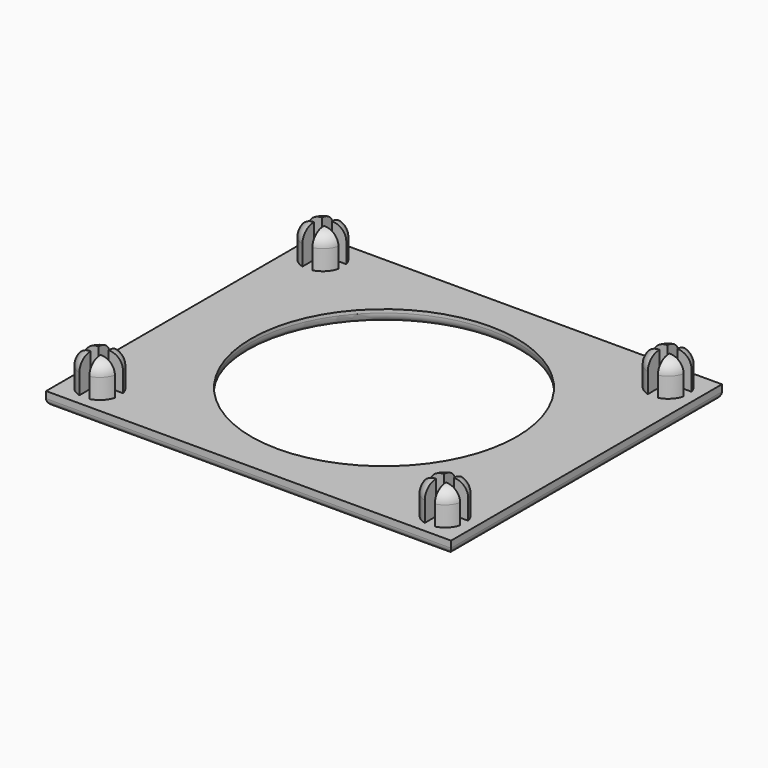
from build123d import *

# Parameters (mm, degrees)
SKETCH001_W                = 61
SKETCH001_H                = 51
PAD_DEPTH                  = 2
SKETCH002_R                = 3
PAD001_DEPTH               = 5
SKETCH002_MIRRORED_2_R     = 3
PAD001_MIRRORED_2_DEPTH    = 5
FILLET_R                   = 2
FILLET001_R                = 1
POCKET_DEPTH               = 5
POCKET_MIRRORED002_2_DEPTH = 5
SKETCH043_R                = 20
POCKET010_DEPTH            = 5
FILLET020_R                = 1.5


with BuildPart() as part:
    # Sketch001 → Pad (new body)
    with BuildSketch(Plane.XY):
        Rectangle(SKETCH001_W, SKETCH001_H)
    extrude(amount=PAD_DEPTH)

    # Sketch002 (on DatumPlane) → Pad001 (join)
    with BuildSketch(Plane.XY.offset(2)):
        with Locations((-26, 21)):
            Circle(SKETCH002_R)
    pad001 = extrude(amount=PAD001_DEPTH)

    # Sketch002 Mirrored 2 → Pad001 Mirrored 2 (add)
    with BuildSketch(Plane(origin=(0, 0, 2), x_dir=(-1, 0, 0), z_dir=(0, 0, -1))):
        with Locations((-26, 21)):
            Circle(SKETCH002_MIRRORED_2_R)
    pad001_mirrored_2 = extrude(amount=-PAD001_MIRRORED_2_DEPTH)

    # Mirrored001: Pad001, Pad001 Mirrored 2 across Sketch002 H_Axis
    add(pad001.mirror(Plane(origin=(0, 0, 2), x_dir=(0, 0, 1), z_dir=(0, 1, 0))))
    add(pad001_mirrored_2.mirror(Plane(origin=(0, 0, 2), x_dir=(0, 0, 1), z_dir=(0, 1, 0))))

    # Fillet
    fillet_edges = [part.edges().sort_by_distance(p)[0] for p in [
        (29, 21, 7),
        (29, -21, 7),
        (-29, -21, 7),
        (-29, 21, 7),
    ]]
    fillet(fillet_edges, radius=FILLET_R)

    # Fillet001
    fillet001_edges = [part.edges().sort_by_distance(p)[0] for p in [
        (0, 25.5, 0),
        (30.5, 0, 0),
        (0, -25.5, 0),
        (-30.5, 0, 0),
    ]]
    fillet(fillet001_edges, radius=FILLET001_R)

    # Sketch003 (on DatumPlane) → Pocket (cut)
    with BuildSketch(Plane.XY.offset(7)):
        Polygon((-29.265642, -20.28286), (-26.765642, -20.28286), (-26.765642, -17.78286), (-25.265642, -17.78286), (-25.265642, -20.28286), (-22.765642, -20.28286), (-22.765642, -21.78286), (-25.265642, -21.78286), (-25.265642, -24.28286), (-26.765642, -24.28286), (-26.765642, -21.78286), (-29.265642, -21.78286), align=None)
    pocket = extrude(amount=-POCKET_DEPTH, mode=Mode.SUBTRACT)

    # Sketch003 Mirrored002 2 → Pocket Mirrored002 2 (cut)
    with BuildSketch(Plane(origin=(0, 0, 7), x_dir=(-1, 0, 0), z_dir=(0, 0, -1))):
        Polygon((-29.265642, -20.28286), (-26.765642, -20.28286), (-26.765642, -17.78286), (-25.265642, -17.78286), (-25.265642, -20.28286), (-22.765642, -20.28286), (-22.765642, -21.78286), (-25.265642, -21.78286), (-25.265642, -24.28286), (-26.765642, -24.28286), (-26.765642, -21.78286), (-29.265642, -21.78286), align=None)
    pocket_mirrored002_2 = extrude(amount=POCKET_MIRRORED002_2_DEPTH, mode=Mode.SUBTRACT)

    # Mirrored003: Pocket, Pocket Mirrored002 2 across Sketch003 H_Axis
    add(pocket.mirror(Plane(origin=(0, 0, 7), x_dir=(0, 0, 1), z_dir=(0, 1, 0))), mode=Mode.SUBTRACT)
    add(pocket_mirrored002_2.mirror(Plane(origin=(0, 0, 7), x_dir=(0, 0, 1), z_dir=(0, 1, 0))), mode=Mode.SUBTRACT)


with BuildPart() as part_1:
    # Body placement: moved
    add(part.part.moved(Location((0, -65, 0))))


with BuildPart() as part_2:
    # Clone003 placement: moved
    add(part_1.part.moved(Location((0, 65, 0))))

    # Sketch043 (on DatumPlane) → Pocket010 (cut)
    with BuildSketch(Plane(origin=(0, 0, 0), x_dir=(1, 0, 0), z_dir=(0, 0, -1))):
        Circle(SKETCH043_R)
    extrude(amount=-POCKET010_DEPTH, mode=Mode.SUBTRACT)

    # Fillet020
    fillet020_edges = [part_2.edges().sort_by_distance(p)[0] for p in [
        (-20, 0, 0),
    ]]
    fillet(fillet020_edges, radius=FILLET020_R)


with BuildPart() as part_3:
    # Body010 placement: moved
    add(part_2.part.moved(Location((223, -65, 0))))


solid = part_3.part
